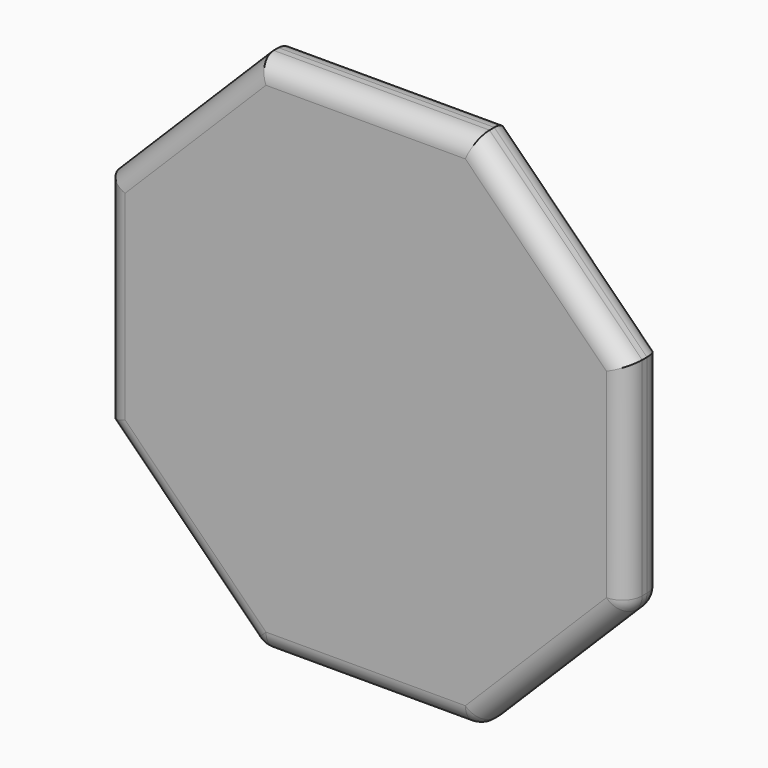
from build123d import *

# Parameters (mm, degrees)
F1_DEPTH = 12.7
F2_R     = 5.518892


with BuildPart() as f1:
    # F0 (on Front) → F1 (new body)
    with BuildSketch(Plane.XZ):
        Polygon((-72.310671, 29.952061), (-72.310671, -29.952061), (-29.952061, -72.310671), (29.952061, -72.310671), (72.310671, -29.952061), (72.310671, 29.952061), (29.952061, 72.310671), (-29.952061, 72.310671), align=None)
    extrude(amount=F1_DEPTH)

    # F2
    f2_edges = [f1.edges().sort_by_distance(p)[0] for p in [
        (51.131366, -12.7, 51.131366),
        (0, -12.7, 72.310671),
        (72.310671, -12.7, 0),
        (72.310671, 0, 0),
        (51.131366, 0, 51.131366),
        (-51.131366, -12.7, 51.131366),
        (-72.310671, -12.7, 0),
        (-72.310671, 0, 0),
        (0, 0, 72.310671),
        (-51.131366, 0, 51.131366),
        (-51.131366, -12.7, -51.131366),
        (-51.131366, 0, -51.131366),
        (-29.952061, -6.35, -72.310671),
        (29.952061, -6.35, -72.310671),
        (0, 0, -72.310671),
        (0, -12.7, -72.310671),
        (72.310671, -6.35, -29.952061),
        (51.131366, 0, -51.131366),
        (51.131366, -12.7, -51.131366),
    ]]
    fillet(f2_edges, radius=F2_R)


solid = f1.part
